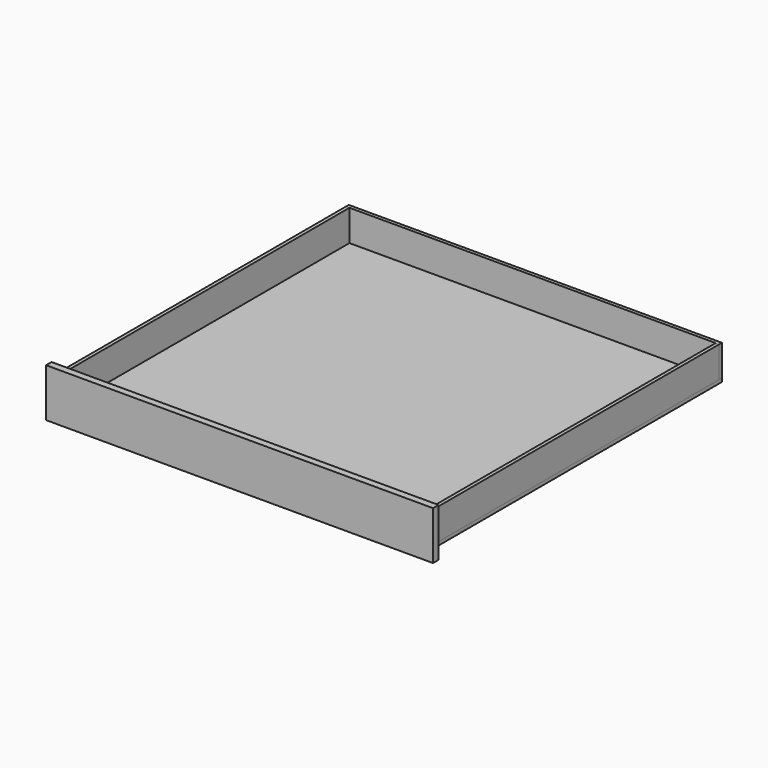
from build123d import *

# Parameters (mm, degrees)
F0_W      = 355.6
F0_H      = 44.45
F1_DEPTH  = 6.35
F4_W      = 330.2
F4_H      = 28.575
F5_DEPTH  = 3.175
F6_W      = 330.2
F6_H      = 28.575
F7_DEPTH  = 3.17754
F8_W      = 342.9
F8_H      = 28.575
F9_DEPTH  = 3.175
F10_W     = 342.9
F10_H     = 333.375
F11_DEPTH = 3.175


with BuildPart() as f1:
    # F0 (on Front) → F1 (new body)
    with BuildSketch(Plane.XZ):
        with Locations((177.8, 22.225)):
            Rectangle(F0_W, F0_H)
    extrude(amount=F1_DEPTH)


with BuildPart() as f5:
    # F4 (on offset) → F5 (new body)
    with BuildSketch(Plane.YZ.offset(349.25)):
        with Locations((165.1, 23.8125)):
            Rectangle(F4_W, F4_H)
    extrude(amount=-F5_DEPTH)


with BuildPart() as f7:
    # F6 (on offset) → F7 (new body)
    with BuildSketch(Plane(origin=(6.35, 0, 0), x_dir=(0, -1, 0), z_dir=(-1, 0, 0))):
        with Locations((-165.1, 23.8125)):
            Rectangle(F6_W, F6_H)
    extrude(amount=-F7_DEPTH)


with BuildPart() as f9:
    # F8 (on face) → F9 (new body)
    with BuildSketch(Plane(origin=(0, 330.2, 0), x_dir=(-1, 0, 0), z_dir=(0, 1, 0))):
        with Locations((-177.8, 23.8125)):
            Rectangle(F8_W, F8_H)
    extrude(amount=F9_DEPTH)


with BuildPart() as f11:
    # F10 (on face) → F11 (new body)
    with BuildSketch(Plane(origin=(0, 0, 9.525), x_dir=(1, 0, 0), z_dir=(0, 0, -1))):
        with Locations((177.8, -166.6875)):
            Rectangle(F10_W, F10_H)
    extrude(amount=F11_DEPTH)


solid = Compound([f1.part, f5.part, f7.part, f9.part, f11.part])
